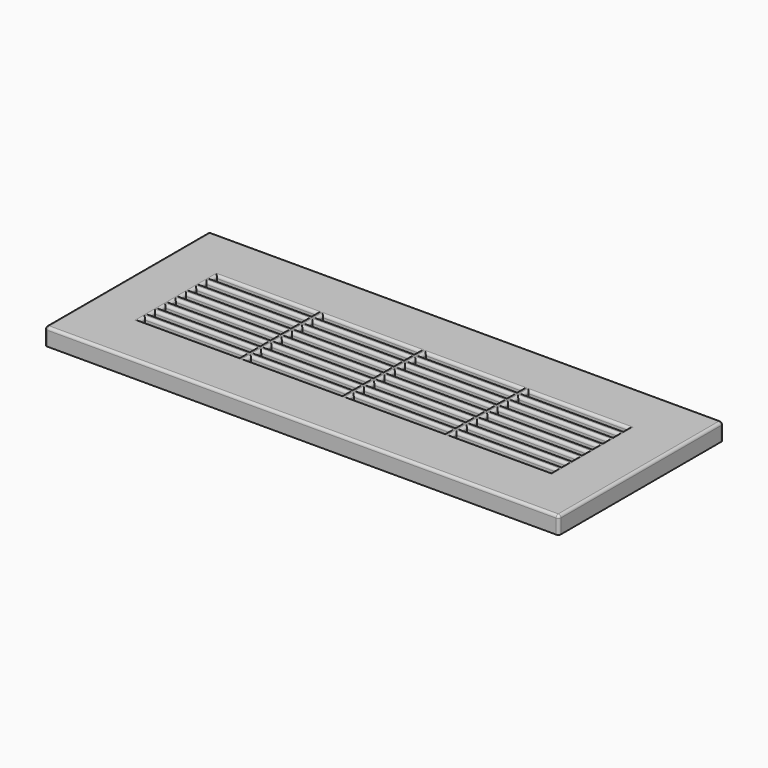
from build123d import *

# Parameters (mm, degrees)
F0_W     = 381
F0_H     = 152.4
F0_W_2   = 73.81875
F0_H_2   = 2.38125
F0_W_3   = 4.7625
F0_W_4   = 71.4375
F0_H_3   = 4.7625
F1_DEPTH = 12.7
F2_R     = 2


with BuildPart() as f1:
    # F0 (on Top) → F1 (new body)
    with BuildSketch(Plane.XY):
        Rectangle(F0_W, F0_H)
        Polygon((-152.4, 35.71875), (-152.4, 38.1), (-78.58125, 38.1), (-73.81875, 38.1), (-2.38125, 38.1), (2.38125, 38.1), (73.81875, 38.1), (78.58125, 38.1), (152.4, 38.1), (152.4, 35.71875), (152.4, 30.95625), (152.4, 26.19375), (152.4, 21.43125), (152.4, 16.66875), (152.4, 11.90625), (152.4, 7.14375), (152.4, 2.38125), (152.4, -2.38125), (152.4, -7.14375), (152.4, -11.90625), (152.4, -16.66875), (152.4, -21.43125), (152.4, -26.19375), (152.4, -30.95625), (152.4, -35.71875), (152.4, -38.1), (78.58125, -38.1), (73.81875, -38.1), (2.38125, -38.1), (-2.38125, -38.1), (-73.81875, -38.1), (-78.58125, -38.1), (-152.4, -38.1), (-152.4, -35.71875), (-152.4, -30.95625), (-152.4, -26.19375), (-152.4, -21.43125), (-152.4, -16.66875), (-152.4, -11.90625), (-152.4, -7.14375), (-152.4, -2.38125), (-152.4, 2.38125), (-152.4, 7.14375), (-152.4, 11.90625), (-152.4, 16.66875), (-152.4, 21.43125), (-152.4, 26.19375), (-152.4, 30.95625), align=None, mode=Mode.SUBTRACT)
        with Locations((-115.490625, 36.909375)):
            Rectangle(F0_W_2, F0_H_2)
        with Locations((-76.2, 36.909375)):
            Rectangle(F0_W_3, F0_H_2)
        with Locations((-38.1, 36.909375)):
            Rectangle(F0_W_4, F0_H_2)
        with Locations((0, 36.909375)):
            Rectangle(F0_W_3, F0_H_2)
        with Locations((38.1, 36.909375)):
            Rectangle(F0_W_4, F0_H_2)
        with Locations((76.2, 36.909375)):
            Rectangle(F0_W_3, F0_H_2)
        with Locations((115.490625, 36.909375)):
            Rectangle(F0_W_2, F0_H_2)
        with Locations((-115.490625, -36.909375)):
            Rectangle(F0_W_2, F0_H_2)
        with Locations((-76.2, -36.909375)):
            Rectangle(F0_W_3, F0_H_2)
        with Locations((-38.1, -36.909375)):
            Rectangle(F0_W_4, F0_H_2)
        with Locations((0, -36.909375)):
            Rectangle(F0_W_3, F0_H_2)
        with Locations((38.1, -36.909375)):
            Rectangle(F0_W_4, F0_H_2)
        with Locations((76.2, -36.909375)):
            Rectangle(F0_W_3, F0_H_2)
        with Locations((115.490625, -36.909375)):
            Rectangle(F0_W_2, F0_H_2)
        with Locations((115.490625, -28.575)):
            Rectangle(F0_W_2, F0_H_3)
        with Locations((76.2, -28.575)):
            Rectangle(F0_W_3, F0_H_3)
        with Locations((38.1, -28.575)):
            Rectangle(F0_W_4, F0_H_3)
        with Locations((0, -28.575)):
            Rectangle(F0_W_3, F0_H_3)
        with Locations((-38.1, -28.575)):
            Rectangle(F0_W_4, F0_H_3)
        with Locations((-76.2, -28.575)):
            Rectangle(F0_W_3, F0_H_3)
        with Locations((-115.490625, -28.575)):
            Rectangle(F0_W_2, F0_H_3)
        with Locations((115.490625, -19.05)):
            Rectangle(F0_W_2, F0_H_3)
        with Locations((76.2, -19.05)):
            Rectangle(F0_W_3, F0_H_3)
        with Locations((38.1, -19.05)):
            Rectangle(F0_W_4, F0_H_3)
        with Locations((0, -19.05)):
            Rectangle(F0_W_3, F0_H_3)
        with Locations((-38.1, -19.05)):
            Rectangle(F0_W_4, F0_H_3)
        with Locations((-76.2, -19.05)):
            Rectangle(F0_W_3, F0_H_3)
        with Locations((-115.490625, -19.05)):
            Rectangle(F0_W_2, F0_H_3)
        with Locations((115.490625, -9.525)):
            Rectangle(F0_W_2, F0_H_3)
        with Locations((76.2, -9.525)):
            Rectangle(F0_W_3, F0_H_3)
        with Locations((38.1, -9.525)):
            Rectangle(F0_W_4, F0_H_3)
        with Locations((0, -9.525)):
            Rectangle(F0_W_3, F0_H_3)
        with Locations((-38.1, -9.525)):
            Rectangle(F0_W_4, F0_H_3)
        with Locations((-76.2, -9.525)):
            Rectangle(F0_W_3, F0_H_3)
        with Locations((-115.490625, -9.525)):
            Rectangle(F0_W_2, F0_H_3)
        with Locations((115.490625, 0)):
            Rectangle(F0_W_2, F0_H_3)
        with Locations((76.2, 0)):
            Rectangle(F0_W_3, F0_H_3)
        with Locations((38.1, 0)):
            Rectangle(F0_W_4, F0_H_3)
        Rectangle(F0_W_3, F0_H_3)
        with Locations((-38.1, 0)):
            Rectangle(F0_W_4, F0_H_3)
        with Locations((-76.2, 0)):
            Rectangle(F0_W_3, F0_H_3)
        with Locations((-115.490625, 0)):
            Rectangle(F0_W_2, F0_H_3)
        with Locations((115.490625, 9.525)):
            Rectangle(F0_W_2, F0_H_3)
        with Locations((76.2, 9.525)):
            Rectangle(F0_W_3, F0_H_3)
        with Locations((38.1, 9.525)):
            Rectangle(F0_W_4, F0_H_3)
        with Locations((0, 9.525)):
            Rectangle(F0_W_3, F0_H_3)
        with Locations((-38.1, 9.525)):
            Rectangle(F0_W_4, F0_H_3)
        with Locations((-76.2, 9.525)):
            Rectangle(F0_W_3, F0_H_3)
        with Locations((-115.490625, 9.525)):
            Rectangle(F0_W_2, F0_H_3)
        with Locations((-115.490625, 19.05)):
            Rectangle(F0_W_2, F0_H_3)
        with Locations((-76.2, 19.05)):
            Rectangle(F0_W_3, F0_H_3)
        with Locations((-38.1, 19.05)):
            Rectangle(F0_W_4, F0_H_3)
        with Locations((0, 19.05)):
            Rectangle(F0_W_3, F0_H_3)
        with Locations((38.1, 19.05)):
            Rectangle(F0_W_4, F0_H_3)
        with Locations((76.2, 19.05)):
            Rectangle(F0_W_3, F0_H_3)
        with Locations((115.490625, 19.05)):
            Rectangle(F0_W_2, F0_H_3)
        with Locations((-115.490625, 28.575)):
            Rectangle(F0_W_2, F0_H_3)
        with Locations((-76.2, 28.575)):
            Rectangle(F0_W_3, F0_H_3)
        with Locations((-38.1, 28.575)):
            Rectangle(F0_W_4, F0_H_3)
        with Locations((0, 28.575)):
            Rectangle(F0_W_3, F0_H_3)
        with Locations((38.1, 28.575)):
            Rectangle(F0_W_4, F0_H_3)
        with Locations((76.2, 28.575)):
            Rectangle(F0_W_3, F0_H_3)
        with Locations((115.490625, 28.575)):
            Rectangle(F0_W_2, F0_H_3)
        with Locations((-76.2, 33.3375)):
            Rectangle(F0_W_3, F0_H_3)
        with Locations((-76.2, 23.8125)):
            Rectangle(F0_W_3, F0_H_3)
        with Locations((-76.2, 14.2875)):
            Rectangle(F0_W_3, F0_H_3)
        with Locations((-76.2, 4.7625)):
            Rectangle(F0_W_3, F0_H_3)
        with Locations((-76.2, -4.7625)):
            Rectangle(F0_W_3, F0_H_3)
        with Locations((-76.2, -14.2875)):
            Rectangle(F0_W_3, F0_H_3)
        with Locations((-76.2, -23.8125)):
            Rectangle(F0_W_3, F0_H_3)
        with Locations((-76.2, -33.3375)):
            Rectangle(F0_W_3, F0_H_3)
        with Locations((0, -33.3375)):
            Rectangle(F0_W_3, F0_H_3)
        with Locations((0, -23.8125)):
            Rectangle(F0_W_3, F0_H_3)
        with Locations((0, 14.2875)):
            Rectangle(F0_W_3, F0_H_3)
        with Locations((0, 23.8125)):
            Rectangle(F0_W_3, F0_H_3)
        with Locations((0, 33.3375)):
            Rectangle(F0_W_3, F0_H_3)
        with Locations((76.2, 33.3375)):
            Rectangle(F0_W_3, F0_H_3)
        with Locations((76.2, 23.8125)):
            Rectangle(F0_W_3, F0_H_3)
        with Locations((76.2, 14.2875)):
            Rectangle(F0_W_3, F0_H_3)
        with Locations((76.2, 4.7625)):
            Rectangle(F0_W_3, F0_H_3)
        with Locations((76.2, -4.7625)):
            Rectangle(F0_W_3, F0_H_3)
        with Locations((76.2, -14.2875)):
            Rectangle(F0_W_3, F0_H_3)
        with Locations((76.2, -23.8125)):
            Rectangle(F0_W_3, F0_H_3)
        with Locations((76.2, -33.3375)):
            Rectangle(F0_W_3, F0_H_3)
        with Locations((0, 4.7625)):
            Rectangle(F0_W_3, F0_H_3)
        with Locations((0, -4.7625)):
            Rectangle(F0_W_3, F0_H_3)
        with Locations((0, -14.2875)):
            Rectangle(F0_W_3, F0_H_3)
    extrude(amount=F1_DEPTH)

    # F2
    f2_edges = [f1.edges().sort_by_distance(p)[0] for p in [
        (0, 76.2, 12.7),
        (-190.5, 0, 12.7),
        (0, -76.2, 12.7),
        (190.5, 0, 12.7),
        (152.4, 33.3375, 12.7),
        (115.490625, 30.95625, 12.7),
        (78.58125, 33.3375, 12.7),
        (115.490625, 35.71875, 12.7),
        (38.1, 30.95625, 12.7),
        (2.38125, 33.3375, 12.7),
        (38.1, 35.71875, 12.7),
        (73.81875, 33.3375, 12.7),
        (-38.1, 30.95625, 12.7),
        (-73.81875, 33.3375, 12.7),
        (-38.1, 35.71875, 12.7),
        (-2.38125, 33.3375, 12.7),
        (-115.490625, 30.95625, 12.7),
        (-152.4, 33.3375, 12.7),
        (-115.490625, 35.71875, 12.7),
        (-78.58125, 33.3375, 12.7),
        (152.4, 23.8125, 12.7),
        (115.490625, 21.43125, 12.7),
        (78.58125, 23.8125, 12.7),
        (115.490625, 26.19375, 12.7),
        (38.1, 21.43125, 12.7),
        (2.38125, 23.8125, 12.7),
        (38.1, 26.19375, 12.7),
        (73.81875, 23.8125, 12.7),
        (-38.1, 21.43125, 12.7),
        (-73.81875, 23.8125, 12.7),
        (-38.1, 26.19375, 12.7),
        (-2.38125, 23.8125, 12.7),
        (-115.490625, 21.43125, 12.7),
        (-152.4, 23.8125, 12.7),
        (-115.490625, 26.19375, 12.7),
        (-78.58125, 23.8125, 12.7),
        (152.4, 14.2875, 12.7),
        (115.490625, 11.90625, 12.7),
        (78.58125, 14.2875, 12.7),
        (115.490625, 16.66875, 12.7),
        (38.1, 11.90625, 12.7),
        (2.38125, 14.2875, 12.7),
        (38.1, 16.66875, 12.7),
        (73.81875, 14.2875, 12.7),
        (-38.1, 11.90625, 12.7),
        (-73.81875, 14.2875, 12.7),
        (-38.1, 16.66875, 12.7),
        (-2.38125, 14.2875, 12.7),
        (-115.490625, 11.90625, 12.7),
        (-152.4, 14.2875, 12.7),
        (-115.490625, 16.66875, 12.7),
        (-78.58125, 14.2875, 12.7),
        (152.4, 4.7625, 12.7),
        (115.490625, 2.38125, 12.7),
        (78.58125, 4.7625, 12.7),
        (115.490625, 7.14375, 12.7),
        (38.1, 2.38125, 12.7),
        (2.38125, 4.7625, 12.7),
        (38.1, 7.14375, 12.7),
        (73.81875, 4.7625, 12.7),
        (-38.1, 2.38125, 12.7),
        (-73.81875, 4.7625, 12.7),
        (-38.1, 7.14375, 12.7),
        (-2.38125, 4.7625, 12.7),
        (-115.490625, 2.38125, 12.7),
        (-152.4, 4.7625, 12.7),
        (-115.490625, 7.14375, 12.7),
        (-78.58125, 4.7625, 12.7),
        (152.4, -4.7625, 12.7),
        (115.490625, -7.14375, 12.7),
        (78.58125, -4.7625, 12.7),
        (115.490625, -2.38125, 12.7),
        (38.1, -7.14375, 12.7),
        (2.38125, -4.7625, 12.7),
        (38.1, -2.38125, 12.7),
        (73.81875, -4.7625, 12.7),
        (-38.1, -7.14375, 12.7),
        (-73.81875, -4.7625, 12.7),
        (-38.1, -2.38125, 12.7),
        (-2.38125, -4.7625, 12.7),
        (-115.490625, -7.14375, 12.7),
        (-152.4, -4.7625, 12.7),
        (-115.490625, -2.38125, 12.7),
        (-78.58125, -4.7625, 12.7),
        (152.4, -14.2875, 12.7),
        (115.490625, -16.66875, 12.7),
        (78.58125, -14.2875, 12.7),
        (115.490625, -11.90625, 12.7),
        (38.1, -16.66875, 12.7),
        (2.38125, -14.2875, 12.7),
        (38.1, -11.90625, 12.7),
        (73.81875, -14.2875, 12.7),
        (-38.1, -16.66875, 12.7),
        (-73.81875, -14.2875, 12.7),
        (-38.1, -11.90625, 12.7),
        (-2.38125, -14.2875, 12.7),
        (-115.490625, -16.66875, 12.7),
        (-152.4, -14.2875, 12.7),
        (-115.490625, -11.90625, 12.7),
        (-78.58125, -14.2875, 12.7),
        (152.4, -23.8125, 12.7),
        (115.490625, -26.19375, 12.7),
        (78.58125, -23.8125, 12.7),
        (115.490625, -21.43125, 12.7),
        (38.1, -26.19375, 12.7),
        (2.38125, -23.8125, 12.7),
        (38.1, -21.43125, 12.7),
        (73.81875, -23.8125, 12.7),
        (-38.1, -26.19375, 12.7),
        (-73.81875, -23.8125, 12.7),
        (-38.1, -21.43125, 12.7),
        (-2.38125, -23.8125, 12.7),
        (-115.490625, -26.19375, 12.7),
        (-152.4, -23.8125, 12.7),
        (-115.490625, -21.43125, 12.7),
        (-78.58125, -23.8125, 12.7),
        (152.4, -33.3375, 12.7),
        (115.490625, -35.71875, 12.7),
        (78.58125, -33.3375, 12.7),
        (115.490625, -30.95625, 12.7),
        (38.1, -35.71875, 12.7),
        (2.38125, -33.3375, 12.7),
        (38.1, -30.95625, 12.7),
        (73.81875, -33.3375, 12.7),
        (-38.1, -35.71875, 12.7),
        (-73.81875, -33.3375, 12.7),
        (-38.1, -30.95625, 12.7),
        (-2.38125, -33.3375, 12.7),
        (-115.490625, -35.71875, 12.7),
        (-152.4, -33.3375, 12.7),
        (-115.490625, -30.95625, 12.7),
        (-78.58125, -33.3375, 12.7),
        (-190.5, 76.2, 6.35),
        (190.5, 76.2, 6.35),
        (190.5, -76.2, 6.35),
        (-190.5, -76.2, 6.35),
    ]]
    fillet(f2_edges, radius=F2_R)


solid = f1.part
